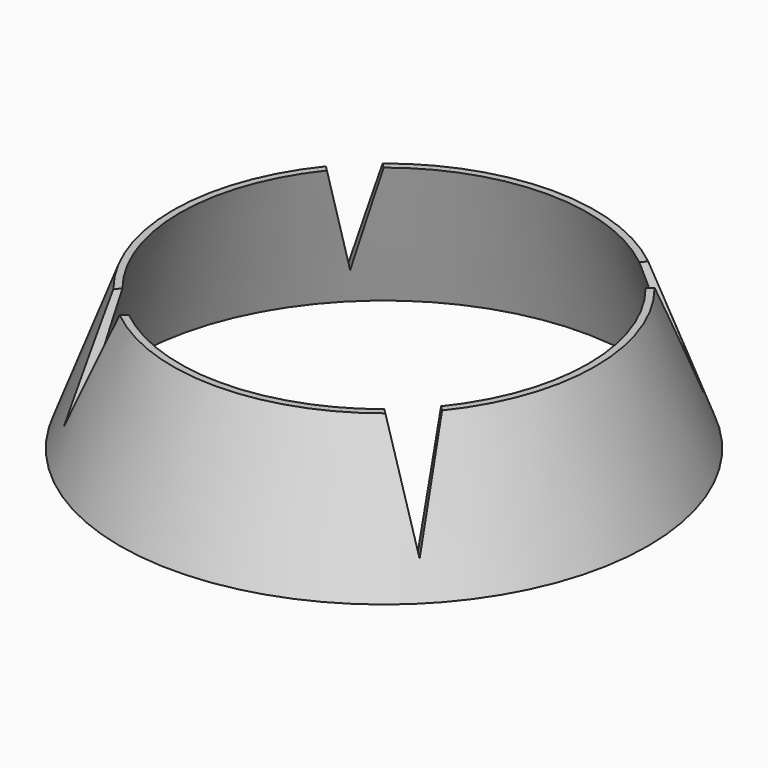
from build123d import *

# Parameters (mm, degrees)
SKETCH027_R           = 71
SKETCH028_R           = 58
SKETCH025_R           = 75
SKETCH026_R           = 60
POCKET005_DEPTH       = 31
POLARPATTERN007_COUNT = 4


with BuildPart() as loft001:
    # Sketch027 → Loft001 section 0
    with BuildSketch(Plane.XY.offset(10)):
        Circle(SKETCH027_R)
    # Sketch028 → Loft001 section 1
    with BuildSketch(Plane.XY.offset(50)):
        Circle(SKETCH028_R)
    loft()


with BuildPart() as support:
    # Sketch025 → Loft section 0
    with BuildSketch(Plane.XY.offset(10)):
        Circle(SKETCH025_R)
    # Sketch026 → Loft section 1
    with BuildSketch(Plane.XY.offset(50)):
        Circle(SKETCH026_R)
    loft()

    # Cut: cut Loft001
    add(loft001.part, mode=Mode.SUBTRACT)

    # Sketch029 → Pocket005 (cut)
    with BuildSketch(Plane(origin=(-60, -60, 0), x_dir=(-0.707107, 0.707107, 0), z_dir=(0.707107, 0.707107, 0))):
        Polygon((9.467248, 65.201898), (0, 19.378601), (-9.467248, 65.201898), align=None)
    pocket005 = extrude(amount=POCKET005_DEPTH, mode=Mode.SUBTRACT)

    # PolarPattern007: Pocket005 ×4 about axis
    polarpattern007_axis = Axis((0, 0, 0), (0, 0, 1))
    for i in range(1, POLARPATTERN007_COUNT):
        add(pocket005.rotate(polarpattern007_axis, i * 360 / POLARPATTERN007_COUNT), mode=Mode.SUBTRACT)


solid = support.part
